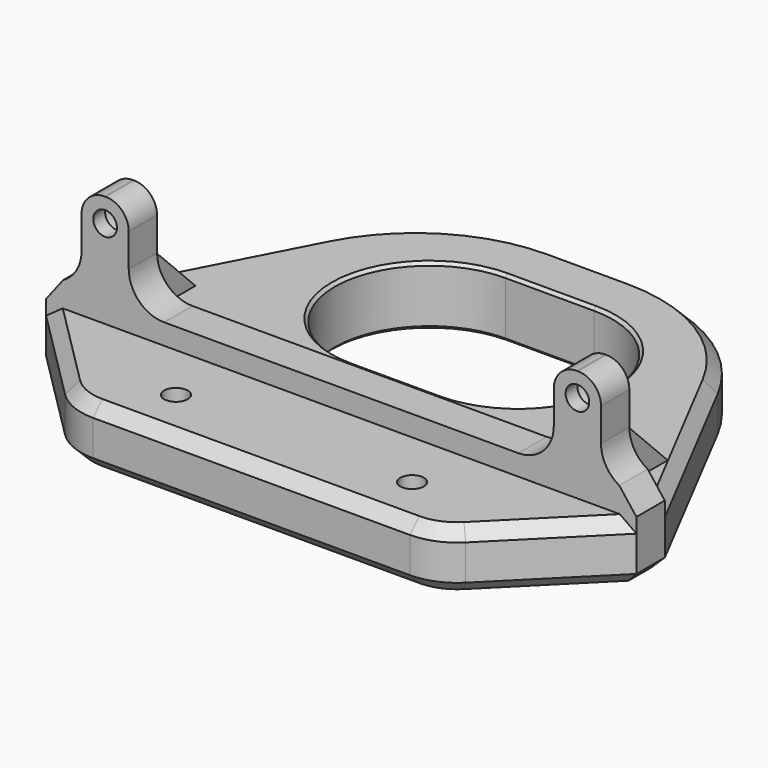
from build123d import *

# Parameters (mm, degrees)
PAD_DEPTH       = 10
SKETCH001_W     = 100
SKETCH001_H     = 6
PAD001_DEPTH    = 19
POCKET_DEPTH    = 25.001
SKETCH003_W     = 59.99999
SKETCH003_H     = 15.5
POCKET001_DEPTH = 25.001
SKETCH004_R     = 2
POCKET002_DEPTH = 25.001
SKETCH005_R     = 3
POCKET003_DEPTH = 3.5
FILLET_R        = 3.9
FILLET001_R     = 30
SKETCH006_R     = 2
POCKET004_DEPTH = 10.001
CHAMFER_SIZE    = 19
FILLET002_R     = 10
CHAMFER001_SIZE = 2
CHAMFER002_SIZE = 3
CHAMFER003_SIZE = 3
CHAMFER004_SIZE = 0.5
PAD002_DEPTH    = 2.5


with BuildPart() as part:
    # Sketch → Pad (new body)
    with BuildSketch(Plane.XY):
        Polygon((50, -22.05), (25, 26.05), (-25, 26.05), (-50, -22.05), (-50, -47.05), (50, -47.05), align=None)
        with BuildLine():
            ThreePointArc((-7.5, 16.05), (-23.55, 0), (-7.5, -16.05))
            Line((-7.5, -16.05), (7.5, -16.05))
            ThreePointArc((7.5, -16.05), (23.55, 0), (7.5, 16.05))
            Line((-7.5, 16.05), (7.5, 16.05))
        make_face(mode=Mode.SUBTRACT)
    extrude(amount=PAD_DEPTH)

    # Sketch001 (on Face12 of Pad) → Pad001 (join)
    with BuildSketch(Plane.XY.offset(10)):
        with Locations((0, -25.05)):
            Rectangle(SKETCH001_W, SKETCH001_H)
    extrude(amount=PAD001_DEPTH)

    # Sketch002 (on Face12 of Pad001) → Pocket (cut, through all)
    with BuildSketch(Plane(origin=(0, -22.05, 0), x_dir=(-1, 0, 0), z_dir=(0, 1, 0))):
        with BuildLine():
            ThreePointArc((-50, 13.5), (-45.757359, 15.257359), (-44, 19.5))
            Line((-44, 29), (-44, 19.5))
            Line((-50, 29), (-44, 29))
            Line((-50, 13.5), (-50, 29))
        make_face()
        with BuildLine():
            ThreePointArc((-36, 19.5), (-30, 13.5), (-24, 19.5))
            Line((-24, 29), (-24, 19.5))
            Line((-36, 29), (-24, 29))
            Line((-36, 19.5), (-36, 29))
        make_face()
        with BuildLine():
            ThreePointArc((-16, 19.5), (-10, 13.5), (-4, 19.5))
            Line((-4, 29), (-4, 19.5))
            Line((-16, 29), (-4, 29))
            Line((-16, 19.5), (-16, 29))
        make_face()
        with BuildLine():
            ThreePointArc((4, 19.5), (10, 13.5), (16, 19.5))
            Line((16, 29), (16, 19.5))
            Line((4, 29), (16, 29))
            Line((4, 19.5), (4, 29))
        make_face()
        with BuildLine():
            ThreePointArc((24, 19.5), (30, 13.5), (36, 19.5))
            Line((36, 29), (36, 19.5))
            Line((24, 29), (36, 29))
            Line((24, 19.5), (24, 29))
        make_face()
        with BuildLine():
            ThreePointArc((44, 19.5), (45.757359, 15.257359), (50, 13.5))
            Line((50, 29), (50, 13.5))
            Line((44, 29), (50, 29))
            Line((44, 19.5), (44, 29))
        make_face()
    extrude(amount=-POCKET_DEPTH, mode=Mode.SUBTRACT)

    # Sketch003 (on Face10 of Pocket) → Pocket001 (cut, through all)
    with BuildSketch(Plane(origin=(0, -22.05, 0), x_dir=(-1, 0, 0), z_dir=(0, 1, 0))):
        with Locations((-5e-06, 21.25)):
            Rectangle(SKETCH003_W, SKETCH003_H)
    extrude(amount=-POCKET001_DEPTH, mode=Mode.SUBTRACT)

    # Sketch004 (on Face10 of Pocket001) → Pocket002 (cut, through all)
    with BuildSketch(Plane(origin=(0, -22.05, 0), x_dir=(-1, 0, 0), z_dir=(0, 1, 0))):
        with Locations((-40, 25)):
            Circle(SKETCH004_R)
        with Locations((40, 25)):
            Circle(SKETCH004_R)
    extrude(amount=-POCKET002_DEPTH, mode=Mode.SUBTRACT)

    # Sketch005 (on Face10 of Pocket002) → Pocket003 (cut)
    with BuildSketch(Plane(origin=(0, -22.05, 0), x_dir=(-1, 0, 0), z_dir=(0, 1, 0))):
        with Locations((-40, 25)):
            Circle(SKETCH005_R)
        with Locations((40, 25)):
            Circle(SKETCH005_R)
    extrude(amount=-POCKET003_DEPTH, mode=Mode.SUBTRACT)

    # Fillet
    fillet_edges = [part.edges().sort_by_distance(p)[0] for p in [
        (36, -25.05, 29),
        (44, -25.05, 29),
        (-36, -25.05, 29),
        (-44, -25.05, 29),
    ]]
    fillet(fillet_edges, radius=FILLET_R)

    # Fillet001
    fillet001_edges = [part.edges().sort_by_distance(p)[0] for p in [
        (25, 26.05, 5),
        (-25, 26.05, 5),
    ]]
    fillet(fillet001_edges, radius=FILLET001_R)

    # Sketch006 (on Face15 of Fillet001) → Pocket004 (cut, through all)
    with BuildSketch(Plane.XY.offset(10)):
        with Locations((-20, -38.05)):
            Circle(SKETCH006_R)
        with Locations((20, -38.05)):
            Circle(SKETCH006_R)
    extrude(amount=-POCKET004_DEPTH, mode=Mode.SUBTRACT)

    # Chamfer
    chamfer_edges = [part.edges().sort_by_distance(p)[0] for p in [
        (-50, -47.05, 5),
        (50, -47.05, 5),
    ]]
    chamfer(chamfer_edges, length=CHAMFER_SIZE)

    # Fillet002
    fillet002_edges = [part.edges().sort_by_distance(p)[0] for p in [
        (-31, -47.05, 5),
        (31, -47.05, 5),
    ]]
    fillet(fillet002_edges, radius=FILLET002_R)

    # Chamfer001
    chamfer001_edges = [part.edges().sort_by_distance(p)[0] for p in [
        (-41.700791, -6.082323, 0),
        (-50, -25.05, 0),
        (-41.964466, -36.085534, 0),
        (50, -25.05, 0),
        (-41.700791, -6.082323, 10),
        (-41.964466, -36.085534, 10),
    ]]
    chamfer(chamfer001_edges, length=CHAMFER001_SIZE)

    # Chamfer002
    chamfer002_edges = [part.edges().sort_by_distance(p)[0] for p in [
        (-50, -25.05, 13.5),
        (50, -25.05, 13.5),
    ]]
    chamfer(chamfer002_edges, length=CHAMFER002_SIZE)

    # Chamfer003
    chamfer003_edges = [part.edges().sort_by_distance(p)[0] for p in [
        (0, -22.05, 10),
    ]]
    chamfer(chamfer003_edges, length=CHAMFER003_SIZE)

    # Chamfer004
    chamfer004_edges = [part.edges().sort_by_distance(p)[0] for p in [
        (-23.55, 0, 0),
        (-23.55, 0, 10),
    ]]
    chamfer(chamfer004_edges, length=CHAMFER004_SIZE)

    # Sketch007 → Pad002 (join, symmetric)
    with BuildSketch(Plane.YZ.offset(-40)):
        Polygon((-22.05, 20), (-22.05, 10), (-12.05, 10), align=None)
    pad002 = extrude(amount=PAD002_DEPTH, both=True)

    # Mirrored: Pad002 across YZ
    add(pad002.mirror(Plane.YZ))


solid = part.part
